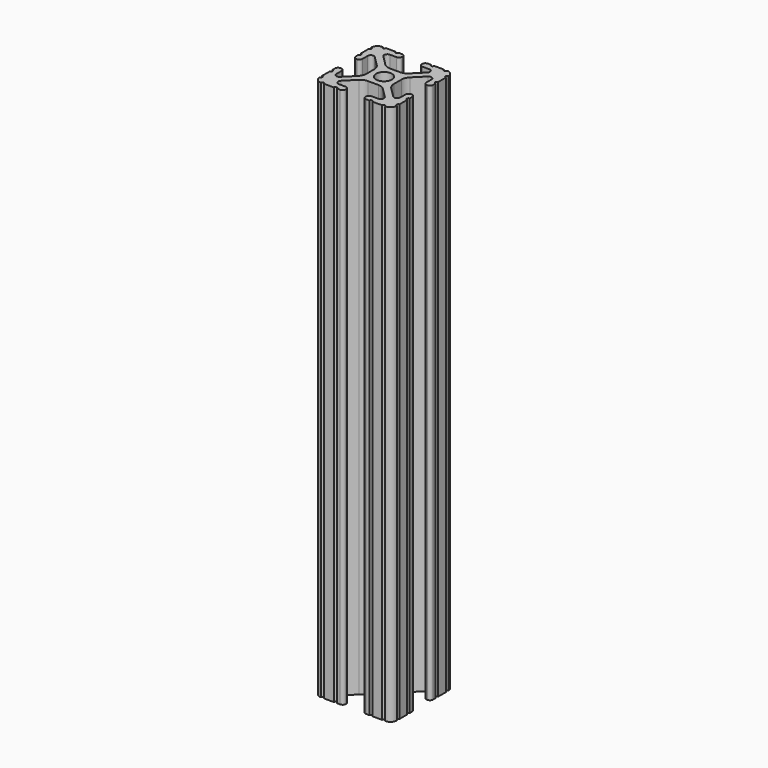
from build123d import *

# Parameters (mm, degrees)
SKETCH097_R   = 2.6035
EXTRUDE_DEPTH = 177.8


with BuildPart() as part:
    # Sketch097 → Extrude (new body)
    with BuildSketch(Plane.XY):
        with BuildLine():
            ThreePointArc((12.7, 6.333084), (12.192, 5.825084), (12.7, 5.317084))
            Line((12.7, 4.287469), (12.7, 5.317084))
            ThreePointArc((11.650988, 3.238457), (12.392751, 3.545706), (12.7, 4.287469))
            Line((11.539212, 3.238457), (11.650988, 3.238457))
            ThreePointArc((10.4902, 4.287469), (10.797449, 3.545706), (11.539212, 3.238457))
            Line((10.4902, 6.402089), (10.4902, 4.287469))
            ThreePointArc((10.4902, 6.402089), (9.856505, 7.351068), (8.737131, 7.129409))
            Line((5.441006, 3.840816), (8.737131, 7.129409))
            ThreePointArc((5.441006, 3.840816), (4.750878, 2.809883), (4.5085, 1.593186))
            Line((4.5085, -1.593186), (4.5085, 1.593186))
            ThreePointArc((4.5085, -1.593186), (4.750878, -2.809883), (5.441006, -3.840816))
            Line((8.737131, -7.129409), (5.441006, -3.840816))
            ThreePointArc((8.737131, -7.129409), (9.856505, -7.351068), (10.4902, -6.402089))
            Line((10.4902, -4.287469), (10.4902, -6.402089))
            ThreePointArc((11.539212, -3.238457), (10.797449, -3.545706), (10.4902, -4.287469))
            Line((11.650988, -3.238457), (11.539212, -3.238457))
            ThreePointArc((12.7, -4.287469), (12.392751, -3.545706), (11.650988, -3.238457))
            Line((12.7, -5.317084), (12.7, -4.287469))
            ThreePointArc((12.7, -5.317084), (12.192, -5.825084), (12.7, -6.333084))
            Line((12.7, -9.5504), (12.7, -6.333084))
            ThreePointArc((12.7, -9.5504), (12.192, -10.058323), (12.699847, -10.5664))
            ThreePointArc((10.566443, -12.699848), (12.082538, -12.082507), (12.699847, -10.5664))
            ThreePointArc((10.566443, -12.699848), (10.058367, -12.192), (9.550443, -12.7))
            Line((6.333127, -12.7), (9.550443, -12.7))
            ThreePointArc((6.333127, -12.7), (5.825127, -12.192), (5.317127, -12.7))
            Line((4.287512, -12.7), (5.317127, -12.7))
            ThreePointArc((3.2385, -11.650988), (3.545749, -12.392751), (4.287512, -12.7))
            Line((3.2385, -11.539212), (3.2385, -11.650988))
            ThreePointArc((4.287512, -10.4902), (3.545749, -10.797449), (3.2385, -11.539212))
            Line((6.416408, -10.4902), (4.287512, -10.4902))
            ThreePointArc((6.416408, -10.4902), (7.414731, -9.822813), (7.17965, -8.645193))
            Line((3.95227, -5.42369), (7.17965, -8.645193))
            ThreePointArc((3.95227, -5.42369), (2.922936, -4.736929), (1.709254, -4.4958))
            Line((-1.709254, -4.4958), (1.709254, -4.4958))
            ThreePointArc((-1.709254, -4.4958), (-2.922936, -4.736929), (-3.95227, -5.42369))
            Line((-7.17965, -8.645193), (-3.95227, -5.42369))
            ThreePointArc((-7.17965, -8.645193), (-7.414731, -9.822813), (-6.416408, -10.4902))
            Line((-4.287512, -10.4902), (-6.416408, -10.4902))
            ThreePointArc((-3.2385, -11.539212), (-3.545749, -10.797449), (-4.287512, -10.4902))
            Line((-3.2385, -11.650988), (-3.2385, -11.539212))
            ThreePointArc((-4.287512, -12.7), (-3.545749, -12.392751), (-3.2385, -11.650988))
            Line((-5.317127, -12.7), (-4.287512, -12.7))
            ThreePointArc((-5.317127, -12.7), (-5.825127, -12.192), (-6.333127, -12.7))
            Line((-9.550443, -12.7), (-6.333127, -12.7))
            ThreePointArc((-9.550443, -12.7), (-10.058367, -12.192), (-10.566443, -12.699848))
            ThreePointArc((-12.699847, -10.5664), (-12.082538, -12.082507), (-10.566443, -12.699848))
            ThreePointArc((-12.699847, -10.5664), (-12.192, -10.058323), (-12.7, -9.5504))
            Line((-12.7, -6.333084), (-12.7, -9.5504))
            ThreePointArc((-12.7, -6.333084), (-12.192, -5.825084), (-12.7, -5.317084))
            Line((-12.7, -4.287469), (-12.7, -5.317084))
            ThreePointArc((-11.650988, -3.238457), (-12.392751, -3.545706), (-12.7, -4.287469))
            Line((-11.539212, -3.238457), (-11.650988, -3.238457))
            ThreePointArc((-10.4902, -4.287469), (-10.797449, -3.545706), (-11.539212, -3.238457))
            Line((-10.4902, -6.402089), (-10.4902, -4.287469))
            ThreePointArc((-10.4902, -6.402089), (-9.856505, -7.351068), (-8.737131, -7.129409))
            Line((-5.441006, -3.840816), (-8.737131, -7.129409))
            ThreePointArc((-5.441006, -3.840816), (-4.750878, -2.809883), (-4.5085, -1.593186))
            Line((-4.5085, 1.593186), (-4.5085, -1.593186))
            ThreePointArc((-4.5085, 1.593186), (-4.750878, 2.809883), (-5.441006, 3.840816))
            Line((-8.737131, 7.129409), (-5.441006, 3.840816))
            ThreePointArc((-8.737131, 7.129409), (-9.856505, 7.351068), (-10.4902, 6.402089))
            Line((-10.4902, 4.287469), (-10.4902, 6.402089))
            ThreePointArc((-11.539212, 3.238457), (-10.797449, 3.545706), (-10.4902, 4.287469))
            Line((-11.650988, 3.238457), (-11.539212, 3.238457))
            ThreePointArc((-12.7, 4.287469), (-12.392751, 3.545706), (-11.650988, 3.238457))
            Line((-12.7, 5.317084), (-12.7, 4.287469))
            ThreePointArc((-12.7, 5.317084), (-12.192, 5.825084), (-12.7, 6.333084))
            Line((-12.7, 9.5504), (-12.7, 6.333084))
            ThreePointArc((-12.7, 9.5504), (-12.192, 10.058323), (-12.699847, 10.5664))
            ThreePointArc((-10.566443, 12.699848), (-12.082538, 12.082507), (-12.699847, 10.5664))
            ThreePointArc((-10.566443, 12.699848), (-10.058367, 12.192), (-9.550443, 12.7))
            Line((-6.333127, 12.7), (-9.550443, 12.7))
            ThreePointArc((-6.333127, 12.7), (-5.825127, 12.192), (-5.317127, 12.7))
            Line((-4.287512, 12.7), (-5.317127, 12.7))
            ThreePointArc((-3.2385, 11.650988), (-3.545749, 12.392751), (-4.287512, 12.7))
            Line((-3.2385, 11.539212), (-3.2385, 11.650988))
            ThreePointArc((-4.287512, 10.4902), (-3.545749, 10.797449), (-3.2385, 11.539212))
            Line((-6.476789, 10.4902), (-4.287512, 10.4902))
            ThreePointArc((-6.476789, 10.4902), (-7.432222, 9.851404), (-7.207036, 8.724371))
            Line((-3.898273, 5.423169), (-7.207036, 8.724371))
            ThreePointArc((-3.898273, 5.423169), (-2.86912, 4.736788), (-1.655778, 4.4958))
            Line((1.655778, 4.4958), (-1.655778, 4.4958))
            ThreePointArc((1.655778, 4.4958), (2.86912, 4.736788), (3.898273, 5.423169))
            Line((7.207036, 8.724371), (3.898273, 5.423169))
            ThreePointArc((7.207036, 8.724371), (7.432222, 9.851404), (6.476789, 10.4902))
            Line((4.287512, 10.4902), (6.476789, 10.4902))
            ThreePointArc((3.2385, 11.539212), (3.545749, 10.797449), (4.287512, 10.4902))
            Line((3.2385, 11.650988), (3.2385, 11.539212))
            ThreePointArc((4.287512, 12.7), (3.545749, 12.392751), (3.2385, 11.650988))
            Line((5.317127, 12.7), (4.287512, 12.7))
            ThreePointArc((5.317127, 12.7), (5.825127, 12.192), (6.333127, 12.7))
            Line((9.550443, 12.7), (6.333127, 12.7))
            ThreePointArc((9.550443, 12.7), (10.058367, 12.192), (10.566443, 12.699848))
            ThreePointArc((12.699847, 10.5664), (12.082538, 12.082507), (10.566443, 12.699848))
            ThreePointArc((12.699847, 10.5664), (12.192, 10.058323), (12.7, 9.5504))
            Line((12.7, 6.333084), (12.7, 9.5504))
        make_face()
        Circle(SKETCH097_R, mode=Mode.SUBTRACT)
    extrude(amount=EXTRUDE_DEPTH)


solid = part.part
